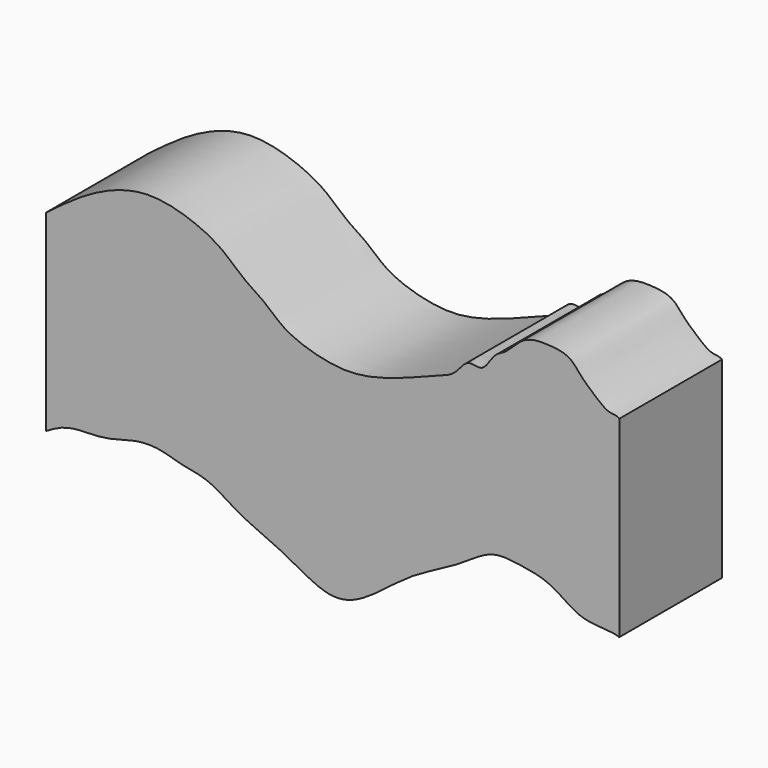
from build123d import *

# Parameters (mm, degrees)
F1_DEPTH = 25.4


with BuildPart() as f1:
    # F0 (on Front) → F1 (new body)
    with BuildSketch(Plane.XZ):
        with BuildLine():
            Line((-57.15, 38.1), (-57.15, 0))
            add(Edge.make_bspline(
                [(-57.15, 0), (-55.5678887536, 0.9706204602), (-52.7478898387, 2.408951432), (-47.5310688636, 2.2766508521), (-43.6861215401, 2.8172347662), (-39.3031787041, 4.3109821559), (-34.5789008382, 4.3207657325), (-30.4229767647, 2.7251123168), (-24.7160199315, 2.1759268258), (-18.6103564436, -2.5597255261), (-9.908862206, -5.5680926945), (-0.1453641285, -12.2428093332), (8.292383439, -7.2756631324), (15.1597377216, -1.2854158249), (24.7290837015, 3.0539505609), (30.8123423692, 7.9814189323), (36.7469632801, 7.2148284875), (43.2571012522, 6.1538741084), (48.8627314855, 0.9465299022), (54.1605135573, 1.7221504192), (56.4134, 0.9832275152)],
                knots=[0, 0, 0, 0, 0.0482414419, 0.096271328, 0.1387859906, 0.1846976974, 0.230851291, 0.2758549434, 0.3262726517, 0.3848795739, 0.4513754422, 0.5220939204, 0.5848618089, 0.6506552485, 0.7205325792, 0.7791395134, 0.829698254, 0.8844411687, 0.9420490632, 1, 1, 1, 1], degree=3))
            Line((56.4134, 0.9832275152), (56.4134, 39.0832275152))
            add(Edge.make_bspline(
                [(56.4134, 39.0832275152), (55.8353088309, 39.541739459), (54.2042967777, 39.2353079029), (51.3649071584, 41.7467249937), (48.7757629052, 43.9155113804), (46.6943595063, 46.9403570368), (42.3456952695, 47.4989796325), (37.3434521381, 47.4018659209), (34.1195906969, 43.1490362558), (31.5015941467, 42.5481900506), (29.5058509814, 38.1026640581), (26.2412030319, 39.9386678379), (24.0803655737, 36.2043494201), (20.7314612557, 35.0244324588), (14.4460019279, 32.5142797222), (7.3408353266, 30.1207455573), (0.0999881241, 29.4700643124), (-9.7375800497, 32.4045034935), (-13.3834979865, 36.4697673394), (-18.0903166453, 39.0908578394), (-22.1896954994, 43.3022351003), (-28.3887675408, 46.3910787669), (-37.6091474203, 48.7569892795), (-47.9783058086, 45.0363073936), (-54.0271058575, 40.4767609882), (-57.15, 38.1)],
                knots=[0, 0, 0, 0, 0.0273760458, 0.0630942345, 0.0985247056, 0.1332809452, 0.1717829148, 0.2133577285, 0.2548874063, 0.2856709967, 0.32304662, 0.3533762782, 0.3888067631, 0.4243579624, 0.473263455, 0.5250428948, 0.5763414068, 0.6356040847, 0.6794108341, 0.7223171439, 0.7676242406, 0.8170116255, 0.8742258684, 0.9357282485, 1, 1, 1, 1], degree=3))
        make_face()
    extrude(amount=F1_DEPTH)


solid = f1.part
